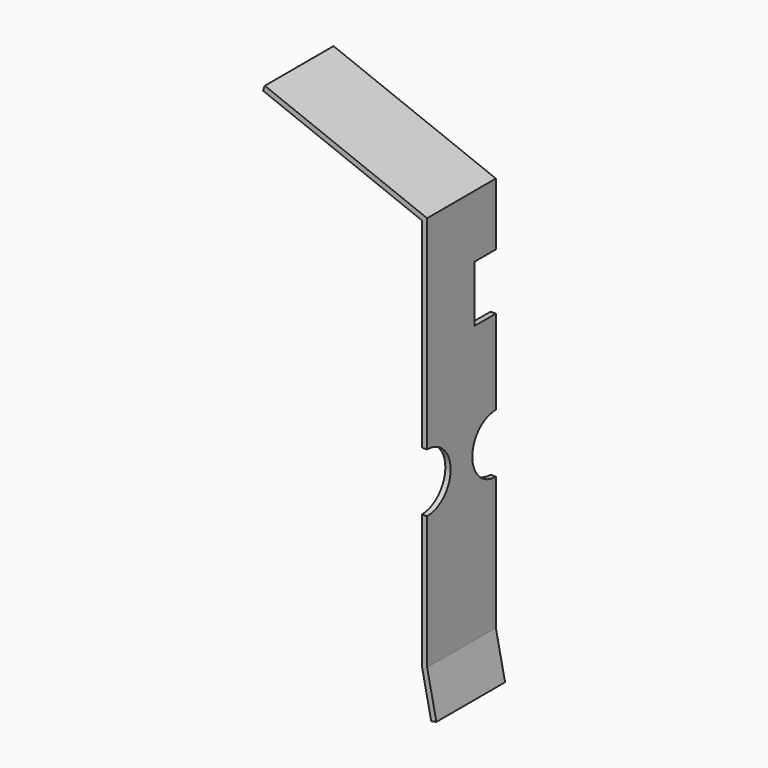
from build123d import *

# Parameters (mm, degrees)
F1_DEPTH = 1.8542
F2_W     = 1.143
F2_H     = 2.4384
F3_DEPTH = 25.4


with BuildPart() as f1:
    # F0 (on Front) → F1 (new body, symmetric)
    with BuildSketch(Plane.XZ):
        Polygon((-6.975146, 2.699733), (-0.1143, 0), (-0.1143, -16.9164), (0.290897, -18.905481), (0.514896, -18.85985), (0.1143, -16.9164), (0.1143, 0), (0.1143, 0.155708), (-6.89144, 2.912456), align=None)
    extrude(amount=F1_DEPTH, both=True)

    # F2 (on face) → F3 (cut)
    with BuildSketch(Plane(origin=(-0.1143, 0, 0), x_dir=(0, -1, 0), z_dir=(-1, 0, 0))):
        with BuildLine():
            Line((-1.8542, -11.176), (-1.8542, -8.636))
            ThreePointArc((-1.8542, -8.636), (-3.1242, -9.906), (-1.8542, -11.176))
        make_face()
        with BuildLine():
            ThreePointArc((-0.5842, -9.906), (-0.956174, -9.007974), (-1.8542, -8.636))
            Line((-1.8542, -8.636), (-1.8542, -11.176))
            ThreePointArc((-1.8542, -11.176), (-0.956174, -10.804026), (-0.5842, -9.906))
        make_face()
        with BuildLine():
            ThreePointArc((3.1242, -9.906), (2.752226, -9.007974), (1.8542, -8.636))
            Line((1.8542, -8.636), (1.8542, -11.176))
            ThreePointArc((1.8542, -11.176), (2.752226, -10.804026), (3.1242, -9.906))
        make_face()
        with BuildLine():
            Line((1.8542, -11.176), (1.8542, -8.636))
            ThreePointArc((1.8542, -8.636), (0.5842, -9.906), (1.8542, -11.176))
        make_face()
        with Locations((-1.2827, -3.7592)):
            Rectangle(F2_W, F2_H)
    extrude(amount=-F3_DEPTH, mode=Mode.SUBTRACT)


solid = f1.part
